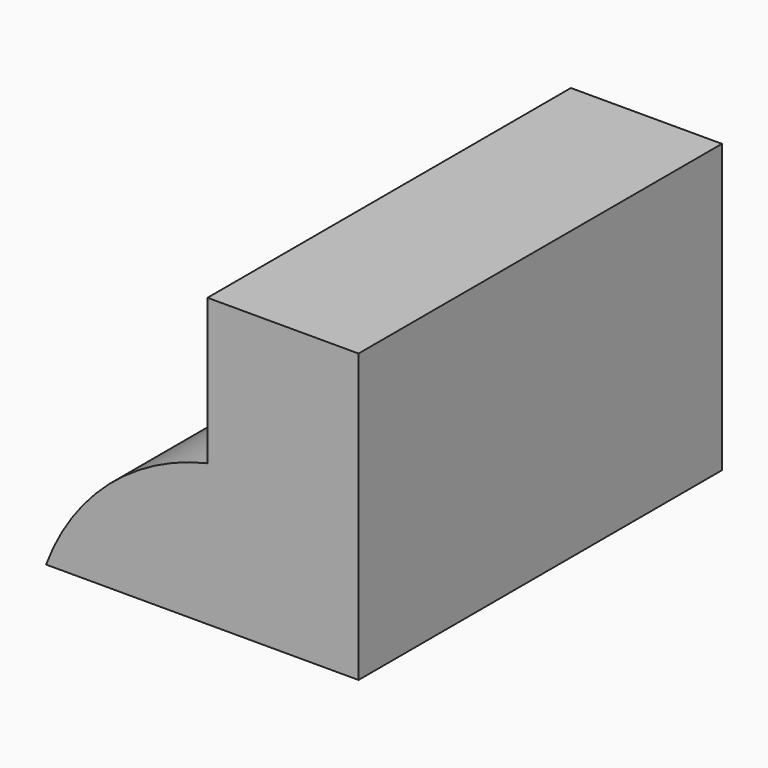
from build123d import *

# Parameters (mm, degrees)
F1_DEPTH = 25.4
F2_DEPTH = 50.8


with BuildPart() as f1:
    # F0 (on Front) → F1 (new body)
    with BuildSketch(Plane.XZ):
        with BuildLine():
            Line((0, 0), (0, 48.2160523534))
            Line((0, 48.2160523534), (-25.3014918417, 47.261275351))
            Line((-25.3014918417, 47.261275351), (-25.3014918417, 23.7738545984))
            ThreePointArc((-25.3014918417, 23.7738545984), (-41.8645804006, 15.3146673523), (-52.4170547724, 0))
            Line((-52.4170547724, 0), (0, 0))
        make_face()
        Polygon((-25.3014918417, 47.261275351), (0, 48.2160523534), (-25.3375213031, 48.2160523534), align=None)
    extrude(amount=F1_DEPTH)

    # F2 (add): a face of the model
    f2_faces = [f1.faces().sort_by_distance(p)[0] for p in [
        (-18.7199477301, -25.4, 20.2252721756),
    ]]
    extrude(f2_faces, amount=F2_DEPTH)


solid = f1.part
